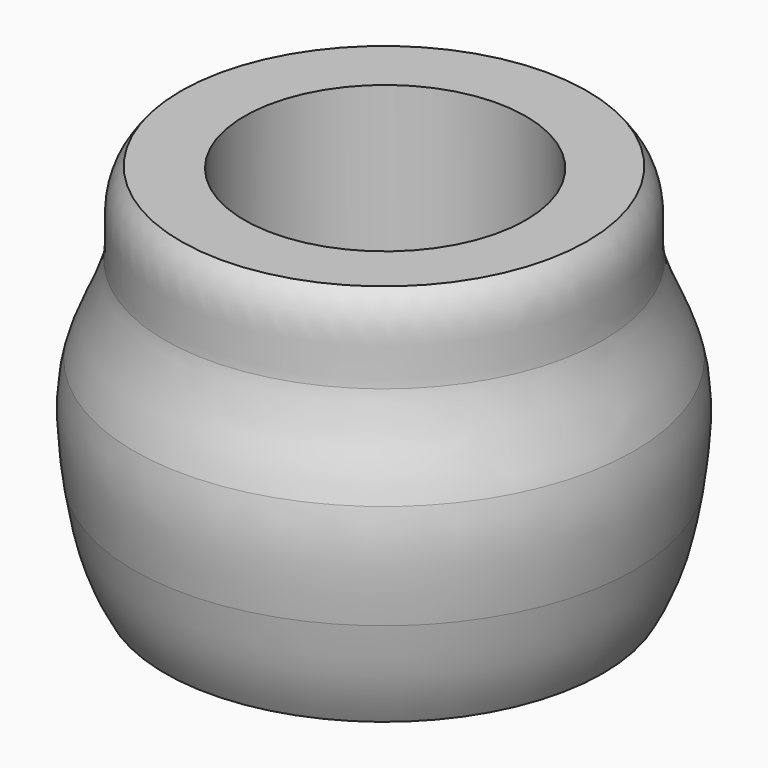
from build123d import *

# Parameters (mm, degrees)
F2_R     = 4.5
F3_DEPTH = 10


with BuildPart() as f1:
    # F0 (on Front) → F1 (revolve)
    with BuildSketch(Plane.XZ):
        with BuildLine():
            Line((0, 3.2263717148), (0, 0))
            Line((0, 0), (7, 0))
            add(Edge.make_bspline(
                [(8, 3.2263717148), (7.8355180596, 2.1172188949), (7.6230442191, 1.0967952544), (7, 0)],
                knots=[0.7384488125, 0.7384488125, 0.7384488125, 0.7384488125, 1, 1, 1, 1], degree=3))
            Line((8, 3.2263717148), (0, 3.2263717148))
        make_face()
        with BuildLine():
            Line((0, 6.5826545469), (0, 3.2263717148))
            Line((0, 3.2263717148), (8, 3.2263717148))
            add(Edge.make_bspline(
                [(8, 6.5826545469), (8.2802285425, 5.5257675864), (8.163957424, 4.3319875582), (8, 3.2263717148)],
                knots=[0.4777316854, 0.4777316854, 0.4777316854, 0.4777316854, 0.7384488125, 0.7384488125, 0.7384488125, 0.7384488125], degree=3))
            Line((8, 6.5826545469), (0, 6.5826545469))
        make_face()
        with BuildLine():
            Line((0, 9.3732718378), (0, 6.5826545469))
            Line((0, 6.5826545469), (8, 6.5826545469))
            add(Edge.make_bspline(
                [(7, 9.3732718378), (7.1230782609, 8.4482807569), (7.7366398984, 7.5759218809), (8, 6.5826545469)],
                knots=[0.2327085037, 0.2327085037, 0.2327085037, 0.2327085037, 0.4777316854, 0.4777316854, 0.4777316854, 0.4777316854], degree=3))
            Line((7, 9.3732718378), (0, 9.3732718378))
        make_face()
        with BuildLine():
            Line((0, 12), (0, 9.3732718378))
            Line((0, 9.3732718378), (7, 9.3732718378))
            add(Edge.make_bspline(
                [(6.5, 12), (7.2086348102, 11.1777499536), (6.8831075585, 10.2517735735), (7, 9.3732718378)],
                knots=[0, 0, 0, 0, 0.2327085037, 0.2327085037, 0.2327085037, 0.2327085037], degree=3))
            Line((6.5, 12), (0, 12))
        make_face()
    revolve(axis=Axis((0, 0, 6), (0, 0, 1)))

    # F2 (on face) → F3 (cut)
    with BuildSketch(Plane.XY.offset(12)):
        with Locations((0.0896312558, -0.0670451336)):
            Circle(F2_R)
    extrude(amount=-F3_DEPTH, mode=Mode.SUBTRACT)


solid = f1.part
